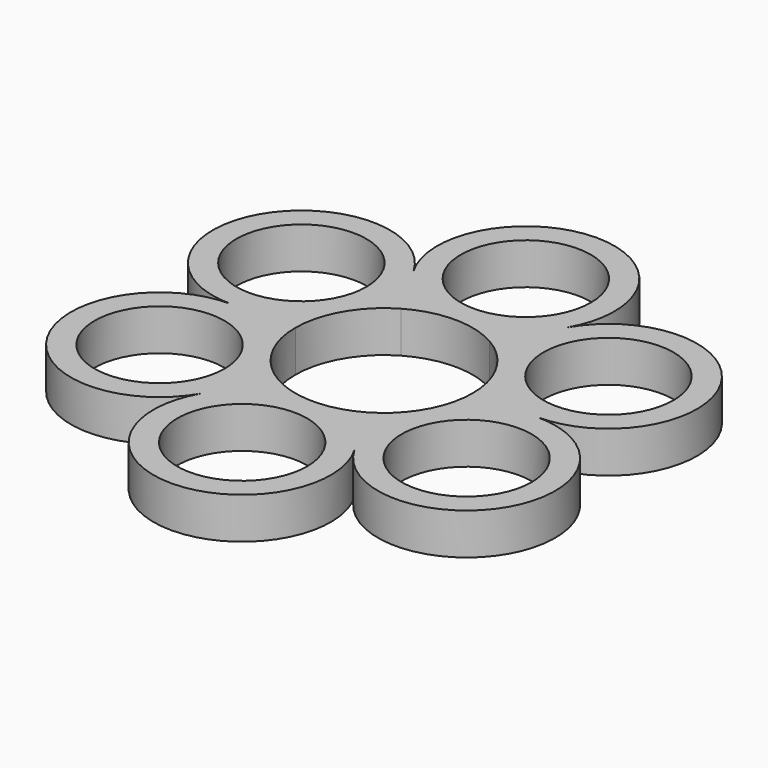
from build123d import *

# Parameters (mm, degrees)
F0_R     = 11
F1_DEPTH = 7


with BuildPart() as f1:
    # F0 (on Top) → F1 (new body)
    with BuildSketch(Plane.XY):
        with BuildLine():
            ThreePointArc((25.980762, 0), (38.971143, 22.5), (12.990381, 22.5))
            ThreePointArc((12.990381, 22.5), (0, 45), (-12.990381, 22.5))
            ThreePointArc((-12.990381, 22.5), (-38.971143, 22.5), (-25.980762, 0))
            ThreePointArc((-25.980762, 0), (-38.971143, -22.5), (-12.990381, -22.5))
            ThreePointArc((-12.990381, -22.5), (0, -45), (12.990381, -22.5))
            ThreePointArc((12.990381, -22.5), (38.971143, -22.5), (25.980762, 0))
        make_face()
        with Locations((-25.980762, -15)):
            Circle(F0_R, mode=Mode.SUBTRACT)
        with Locations((0, -30)):
            Circle(F0_R, mode=Mode.SUBTRACT)
        with Locations((25.980762, -15)):
            Circle(F0_R, mode=Mode.SUBTRACT)
        with Locations((-25.980762, 15)):
            Circle(F0_R, mode=Mode.SUBTRACT)
        with BuildLine():
            ThreePointArc((-7.5, 12.990381), (0, 15), (7.5, 12.990381))
            ThreePointArc((7.5, 12.990381), (12.990381, 7.5), (15, 0))
            ThreePointArc((15, 0), (12.990381, -7.5), (7.5, -12.990381))
            ThreePointArc((7.5, -12.990381), (0, -15), (-7.5, -12.990381))
            ThreePointArc((-7.5, -12.990381), (-12.990381, -7.5), (-15, 0))
            ThreePointArc((-15, 0), (-12.990381, 7.5), (-7.5, 12.990381))
        make_face(mode=Mode.SUBTRACT)
        with Locations((25.980762, 15)):
            Circle(F0_R, mode=Mode.SUBTRACT)
        with Locations((0, 30)):
            Circle(F0_R, mode=Mode.SUBTRACT)
    extrude(amount=F1_DEPTH)


solid = f1.part
